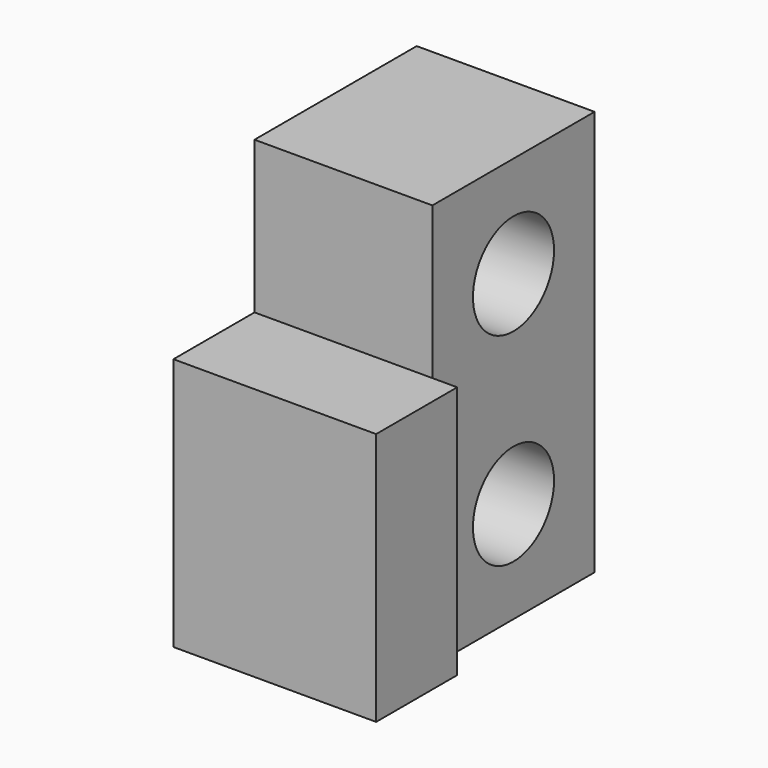
from build123d import *

# Parameters (mm, degrees)
F0_R     = 5
F1_DEPTH = 17.5514
F0_W     = 10
F0_H     = 25
F2_DEPTH = 20
F3_R     = 5
F4_DEPTH = 17.5514


with BuildPart() as f1:
    # F0 (on Right) → F1 (new body)
    with BuildSketch(Plane.YZ):
        Polygon((10, -20), (10, 20), (-10, 20), (-10, 5), (-10, -20), align=None)
        with Locations((0, -10)):
            Circle(F0_R, mode=Mode.SUBTRACT)
    extrude(amount=F1_DEPTH)

    # F0 (on Right) → F2 (join)
    with BuildSketch(Plane.YZ):
        with Locations((-15, -7.5)):
            Rectangle(F0_W, F0_H)
    extrude(amount=F2_DEPTH)

    # F3 (on face) → F4 (cut, through all)
    with BuildSketch(Plane.YZ):
        with Locations((0, 10)):
            Circle(F3_R)
    extrude(amount=F4_DEPTH, mode=Mode.SUBTRACT)


solid = f1.part
